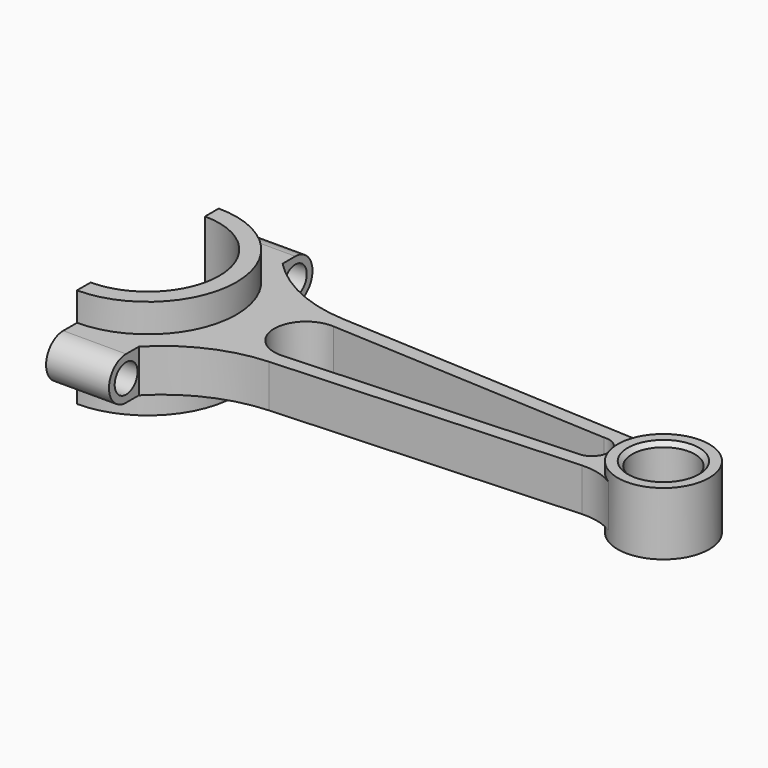
from build123d import *

# Parameters (mm, degrees)
PAD_DEPTH          = 7.5
PAD001_DEPTH       = 17.5
PAD002_DEPTH       = 22
SKETCH_R           = 5
POCKET_DEPTH       = 22
POLARPATTERN_COUNT = 2
SKETCH004_R        = 16
PAD003_DEPTH       = 11
SKETCH005_R        = 11
POCKET001_DEPTH    = 22
CHAMFER_SIZE       = 1.5
CHAMFER001_SIZE    = 1.5


with BuildPart() as part:
    # CopySketch → Pad (new body, symmetric)
    with BuildSketch(Plane.XY):
        with BuildLine():
            Line((0, 31), (0, 37))
            Line((0, 37), (22, 37))
            Line((22, 37), (22, 31.4212968542))
            ThreePointArc((22, 31.4212968542), (37.2437089984, 20.6317995096), (55.3832021879, 16.1885232623))
            Line((55.3832021879, 16.1885232623), (160.4601470712, 10.6816739271))
            ThreePointArc((160.4601470712, 10.6816739271), (166.4509055525, 11.2749850989), (171.9937191701, 13.6241173914))
            ThreePointArc((171.9937191701, 13.6241173914), (164.3832021879, -3.37e-07), (171.993719744, -13.6241177448))
            ThreePointArc((171.993719744, -13.6241177448), (166.450905879, -11.2749851822), (160.4601470712, -10.6816739271))
            Line((55.3832021879, -16.1885232623), (160.4601470712, -10.6816739271))
            ThreePointArc((55.3832021879, -16.1885232623), (37.2437089984, -20.6317995096), (22, -31.4212968542))
            Line((22, -37), (22, -31.4212968542))
            Line((0, -37), (22, -37))
            Line((0, -31), (0, -37))
            ThreePointArc((0, -31), (31, 0), (0, 31))
        make_face()
        with BuildLine():
            ThreePointArc((154.7990604967, -5.9714971728), (161.3832021879, 0), (154.7990604967, 5.9714971728))
            Line((55.9676031362, 11.1510343764), (154.7990604967, 5.9714971728))
            ThreePointArc((55.9676031362, 11.1510343764), (44.2168647341, -1.26234e-05), (55.9676283484, -11.151033055))
            Line((55.9676283484, -11.151033055), (154.7990604967, -5.9714971728))
        make_face(mode=Mode.SUBTRACT)
    extrude(amount=PAD_DEPTH, both=True)

    # Sketch001 → Pad001 (join, symmetric)
    with BuildSketch(Plane.XY):
        with BuildLine():
            ThreePointArc((0, -25), (25, 0), (0, 25))
            Line((0, 31), (0, 25))
            ThreePointArc((0, -31), (31, 0), (0, 31))
            Line((0, -25), (0, -31))
        make_face()
    extrude(amount=PAD001_DEPTH, both=True)

    # Sketch003 → Pad002 (join)
    with BuildSketch(Plane.YZ):
        with BuildLine():
            ThreePointArc((37, -7.5), (44.5, 0), (37, 7.5))
            Line((37, 7.5), (37, -7.5))
        make_face()
        with BuildLine():
            ThreePointArc((-37, 7.5), (-44.5, 0), (-37, -7.5))
            Line((-37, 7.5), (-37, -7.5))
        make_face()
    extrude(amount=PAD002_DEPTH)

    # Sketch (on Face13 of Pad002) → Pocket (cut)
    with BuildSketch(Plane(origin=(0, 0, 0), x_dir=(0, -1, 0), z_dir=(-1, 0, 0))):
        with Locations((-37, 0)):
            Circle(SKETCH_R)
    pocket = extrude(amount=-POCKET_DEPTH, mode=Mode.SUBTRACT)

    # PolarPattern: Pocket ×2 about axis
    polarpattern_axis = Axis((0, 0, 0), (-1, 0, 0))
    for i in range(1, POLARPATTERN_COUNT):
        add(pocket.rotate(polarpattern_axis, i * 360 / POLARPATTERN_COUNT), mode=Mode.SUBTRACT)

    # Sketch004 → Pad003 (join, symmetric)
    with BuildSketch(Plane.XY):
        with Locations((180.383202, 0)):
            Circle(SKETCH004_R)
    extrude(amount=PAD003_DEPTH, both=True)

    # Sketch005 (on Face3 of Pad003) → Pocket001 (cut)
    with BuildSketch(Plane.XY.offset(11)):
        with Locations((180.383202, 0)):
            Circle(SKETCH005_R)
    extrude(amount=-POCKET001_DEPTH, mode=Mode.SUBTRACT)

    # Chamfer
    chamfer_edges = [part.edges().sort_by_distance(p)[0] for p in [
        (169.383202, 0, 11),
    ]]
    chamfer(chamfer_edges, length=CHAMFER_SIZE)

    # Chamfer001
    chamfer001_edges = [part.edges().sort_by_distance(p)[0] for p in [
        (169.383202, 0, -11),
    ]]
    chamfer(chamfer001_edges, length=CHAMFER001_SIZE)


solid = part.part
